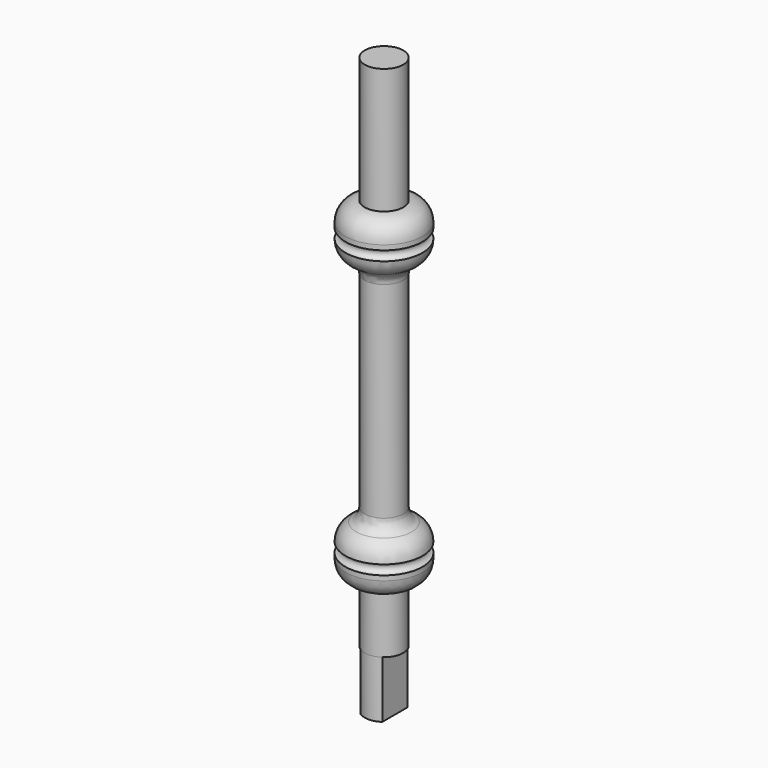
from build123d import *

# Parameters (mm, degrees)
FILLET_R     = 3
PAD_DEPTH    = 11.8
SKETCH002_R  = 1.509367
POCKET_DEPTH = 1


with BuildPart() as part:
    # Sketch → Revolution (revolve)
    with BuildSketch(Plane.YZ):
        with BuildLine():
            Line((0, 0), (-4, 0))
            Line((-4, 0), (-4, 12))
            ThreePointArc((-8, 16), (-6.828427, 13.171573), (-4, 12))
            Line((-8, 17), (-8, 16))
            ThreePointArc((-8, 17), (-7, 18), (-8, 19))
            ThreePointArc((-4, 23), (-6.828427, 21.828427), (-8, 19))
            Line((-4, 23), (-4, 70.25))
            ThreePointArc((-8, 74.25), (-6.828427, 71.421573), (-4, 70.25))
            ThreePointArc((-8, 74.25), (-7, 75.25), (-8, 76.25))
            Line((-8, 76.25), (-8, 77.25))
            ThreePointArc((-4, 81.25), (-6.828427, 80.078427), (-8, 77.25))
            Line((-4, 107.25), (-4, 81.25))
            Line((0, 107.25), (-4, 107.25))
            Line((0, 0), (0, 107.25))
        make_face()
    revolve(axis=Axis((0, 0, 0), (0, 0, 1)))

    # Fillet
    fillet_edges = [part.edges().sort_by_distance(p)[0] for p in [
        (0, 4, 23),
        (0, 4, 70.25),
        (0, -4, 46.625),
    ]]
    fillet(fillet_edges, radius=FILLET_R)

    # Sketch001 → Pad (new body)
    with BuildSketch(Plane.XY):
        with BuildLine():
            ThreePointArc((2.275, 3.290042), (0, 4), (-2.275, 3.290042))
            Line((-2.275, 3.290042), (-2.275, -3.290042))
            ThreePointArc((-2.275, -3.290042), (0, -4), (2.275, -3.290042))
            Line((2.275, 3.290042), (2.275, -3.290042))
        make_face()
    extrude(amount=-PAD_DEPTH)

    # Sketch002 → Pocket (cut)
    with BuildSketch(Plane.XY.offset(-11.8)):
        Circle(SKETCH002_R)
    extrude(amount=POCKET_DEPTH, mode=Mode.SUBTRACT)


solid = part.part
